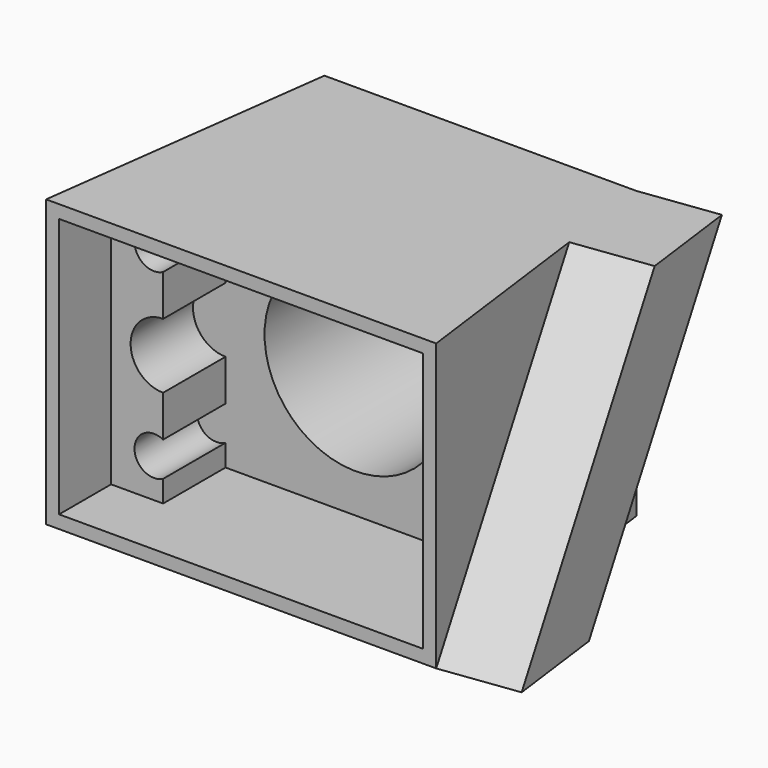
from build123d import *

# Parameters (mm, degrees)
F0_W     = 30
F0_H     = 22
F1_DEPTH = 23
F2_DEPTH = 18
F0_R     = 7
F3_DEPTH = 12
F4_DEPTH = 12
F6_DEPTH = 25
F8_DEPTH = 6


with BuildPart() as f1:
    # F0 (on Front) → F1 (new body)
    with BuildSketch(Plane.XZ):
        with Locations((0, -11)):
            Rectangle(F0_W, F0_H)
        Polygon((-14, -21), (-14, -1), (-10, -1), (10, -1), (14, -1), (14, -21), (10, -21), (-10, -21), align=None, mode=Mode.SUBTRACT)
    extrude(amount=F1_DEPTH)

    # F0 (on Front) → F2 (join)
    with BuildSketch(Plane.XZ):
        with BuildLine():
            Line((-10, -1), (-14, -1))
            Line((-14, -1), (-14, -21))
            Line((-14, -21), (-10, -21))
            Line((-10, -21), (-10, -19.3266499161))
            ThreePointArc((-10, -19.3266499161), (-12.2, -18), (-10, -16.6733500839))
            Line((-10, -16.6733500839), (-10, -13.5))
            ThreePointArc((-10, -13.5), (-12.5, -11), (-10, -8.5))
            Line((-10, -8.5), (-10, -5.3266499161))
            ThreePointArc((-10, -5.3266499161), (-12.2, -4), (-10, -2.6733500839))
            Line((-10, -2.6733500839), (-10, -1))
        make_face()
        with BuildLine():
            Line((14, -1), (10, -1))
            Line((10, -1), (10, -2.6733500839))
            ThreePointArc((10, -2.6733500839), (11.4745966692, -2.7154767421), (12.2, -4))
            ThreePointArc((12.2, -4), (11.4745966692, -5.2845232579), (10, -5.3266499161))
            Line((10, -5.3266499161), (10, -8.5))
            ThreePointArc((10, -8.5), (12.5, -11), (10, -13.5))
            Line((10, -13.5), (10, -16.6733500839))
            ThreePointArc((10, -16.6733500839), (11.4745966692, -16.7154767421), (12.2, -18))
            ThreePointArc((12.2, -18), (11.4745966692, -19.2845232579), (10, -19.3266499161))
            Line((10, -19.3266499161), (10, -21))
            Line((10, -21), (14, -21))
            Line((14, -21), (14, -1))
        make_face()
    extrude(amount=F2_DEPTH)

    # F0 (on Front) → F3 (join)
    with BuildSketch(Plane.XZ):
        with BuildLine():
            Line((10, -1), (-10, -1))
            Line((-10, -1), (-10, -2.6733500839))
            ThreePointArc((-10, -2.6733500839), (-9.4154767421, -3.2254033308), (-9.2, -4))
            ThreePointArc((-9.2, -4), (-9.4154767421, -4.7745966692), (-10, -5.3266499161))
            Line((-10, -5.3266499161), (-10, -8.5))
            ThreePointArc((-10, -8.5), (-12.5, -11), (-10, -13.5))
            Line((-10, -13.5), (-10, -16.6733500839))
            ThreePointArc((-10, -16.6733500839), (-9.4154767421, -17.2254033308), (-9.2, -18))
            ThreePointArc((-9.2, -18), (-9.4154767421, -18.7745966692), (-10, -19.3266499161))
            Line((-10, -19.3266499161), (-10, -21))
            Line((-10, -21), (10, -21))
            Line((10, -21), (10, -19.3266499161))
            ThreePointArc((10, -19.3266499161), (9.2, -18), (10, -16.6733500839))
            Line((10, -16.6733500839), (10, -13.5))
            ThreePointArc((10, -13.5), (12.5, -11), (10, -8.5))
            Line((10, -8.5), (10, -5.3266499161))
            ThreePointArc((10, -5.3266499161), (9.2, -4), (10, -2.6733500839))
            Line((10, -2.6733500839), (10, -1))
        make_face()
        with Locations((0, -11)):
            Circle(F0_R, mode=Mode.SUBTRACT)
    extrude(amount=F3_DEPTH)

    # F0 (on Front) → F4 (join)
    with BuildSketch(Plane.XZ):
        with BuildLine():
            ThreePointArc((-9.2, -4), (-9.4154767421, -3.2254033308), (-10, -2.6733500839))
            ThreePointArc((-10, -2.6733500839), (-12.2, -4), (-10, -5.3266499161))
            ThreePointArc((-10, -5.3266499161), (-9.4154767421, -4.7745966692), (-9.2, -4))
        make_face()
        with BuildLine():
            ThreePointArc((12.2, -4), (11.4745966692, -2.7154767421), (10, -2.6733500839))
            ThreePointArc((10, -2.6733500839), (9.2, -4), (10, -5.3266499161))
            ThreePointArc((10, -5.3266499161), (11.4745966692, -5.2845232579), (12.2, -4))
        make_face()
        with BuildLine():
            ThreePointArc((10, -16.6733500839), (9.2, -18), (10, -19.3266499161))
            ThreePointArc((10, -19.3266499161), (11.4745966692, -19.2845232579), (12.2, -18))
            ThreePointArc((12.2, -18), (11.4745966692, -16.7154767421), (10, -16.6733500839))
        make_face()
        with BuildLine():
            ThreePointArc((-10, -16.6733500839), (-12.2, -18), (-10, -19.3266499161))
            ThreePointArc((-10, -19.3266499161), (-9.4154767421, -18.7745966692), (-9.2, -18))
            ThreePointArc((-9.2, -18), (-9.4154767421, -17.2254033308), (-10, -16.6733500839))
        make_face()
    extrude(amount=F4_DEPTH)

    # F5 (on face) → F6 (cut)
    with BuildSketch(Plane.XY):
        Polygon((-15, -23), (-12, 0), (-15, 0), align=None)
        Polygon((15, 0), (12, 0), (15, -23), align=None)
    extrude(amount=-F6_DEPTH, mode=Mode.SUBTRACT)

    # F7 (on face) → F8 (join)
    with BuildSketch(Plane(origin=(11.7992565056, 1.5390334572, 0), x_dir=(-0.1293391841, 0.9916004112, 0), z_dir=(0.9916004112, 0.1293391841, 0))):
        Polygon((-1.5520702088, 0), (-9.3423313777, 0), (-24.7468972183, -22), (-16.9566360494, -22), align=None)
    extrude(amount=F8_DEPTH)


solid = f1.part
